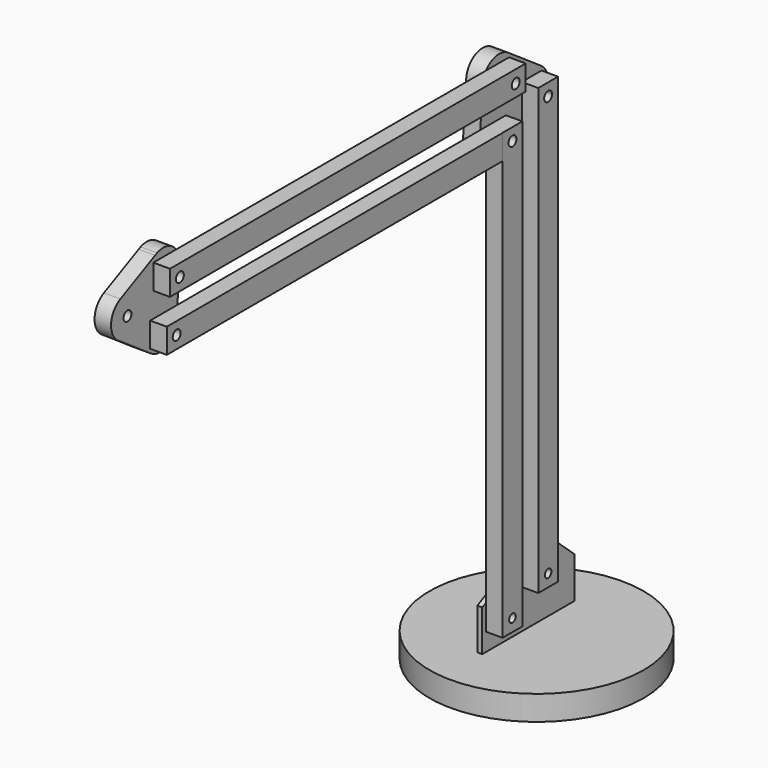
from build123d import *

# Parameters (mm, degrees)
F0_R      = 65
F1_DEPTH  = 15
F2_W      = 3
F2_H      = 70
F3_DEPTH  = 25
F5_DEPTH  = 3
F7_D      = 5
F8_R      = 3
F8_R_2    = 2.5
F9_DEPTH  = 10
F10_R     = 3
F11_DEPTH = 10
F12_R     = 3
F13_DEPTH = 10.1
F14_R     = 3
F15_DEPTH = 10


with BuildPart() as f1:
    # F0 (on Top) → F1 (new body)
    with BuildSketch(Plane.XY):
        Circle(F0_R)
    extrude(amount=F1_DEPTH)

    # F2 (on face) → F3 (join)
    with BuildSketch(Plane.XY.offset(15)):
        with Locations((-6.5, 0)):
            Rectangle(F2_W, F2_H)
    extrude(amount=F3_DEPTH)

    # F4 (on face) → F5 (join)
    with BuildSketch(Plane(origin=(-8, 0, 0), x_dir=(0, -1, 0), z_dir=(-1, 0, 0))):
        Polygon((-35, 40), (35, 40), (-10.6395371258, 61.74890697), align=None)
    extrude(amount=-F5_DEPTH)

    # F7 (through all)
    with Locations(Plane(origin=(-8, 0, 0), x_dir=(0, -1, 0), z_dir=(-1, 0, 0))):
        with Locations((-2.5252789198, 46.2088645364), (24.5568976072, 33.3032179211)):
            Hole(F7_D / 2)

    # F8 (on face) → F9 (join)
    with BuildSketch(Plane.YZ.offset(-5)):
        Polygon((-32.0568976072, 295.8032179211), (-32.0568976072, 41.4024958221), (-17.0568976072, 48.5505438764), (-17.0568976072, 295.8032179211), align=None)
        with Locations((-24.5568976072, 288.3032179211)):
            Circle(F8_R, mode=Mode.SUBTRACT)
        Polygon((-4.9747210802, 308.7088645364), (-4.9747210802, 54.3081424374), (10.0252789198, 61.4561904917), (10.0252789198, 308.7088645364), (2.5252789198, 308.7088645364), align=None)
        with BuildLine():
            ThreePointArc((5.5252789198, 301.2088645364), (0.4039585762, 299.0875441928), (2.5252789198, 304.2088645364))
            ThreePointArc((2.5252789198, 304.2088645364), (4.6465992633, 303.3301848799), (5.5252789198, 301.2088645364))
        make_face(mode=Mode.SUBTRACT)
        Polygon((10.0252789198, 61.4561904917), (-4.9747210802, 54.3081424374), (-4.9747210802, 38.7088645364), (10.0252789198, 38.7088645364), align=None)
        with Locations((2.5252789198, 46.2088645364)):
            Circle(F8_R_2, mode=Mode.SUBTRACT)
        Polygon((-32.0568976072, 41.4024958221), (-32.0568976072, 25.8032179211), (-17.0568976072, 25.8032179211), (-17.0568976072, 48.5505438764), align=None)
        with Locations((-24.5568976072, 33.3032179211)):
            Circle(F8_R_2, mode=Mode.SUBTRACT)
    extrude(amount=F9_DEPTH)

    # F10 (on face) → F11 (join)
    with BuildSketch(Plane(origin=(-5, 0, 0), x_dir=(0, -1, 0), z_dir=(-1, 0, 0))):
        with BuildLine():
            Line((36.9886778951, 289.224208002), (34.7282933681, 317.885416384))
            ThreePointArc((34.7282933681, 317.885416384), (28.1753092515, 329.1496679175), (15.161757221, 328.4623346707))
            Line((15.161757221, 328.4623346707), (-8.9063381185, 311.9574497225))
            Line((-8.9063381185, 311.9574497225), (-10.2528547102, 311.03406542))
            ThreePointArc((-10.2528547102, 311.03406542), (-14.9500569426, 299.8395979138), (-7.9278259355, 289.9366648512))
            Line((-7.9278259355, 289.9366648512), (18.9534333664, 277.0529978406))
            Line((18.9534333664, 277.0529978406), (19.2974731878, 276.8881062168))
            ThreePointArc((19.2974731878, 276.8881062168), (31.6770683616, 277.9880576803), (36.9886778951, 289.224208002))
        make_face()
        with Locations((-2.5252789198, 301.2088645364)):
            Circle(F10_R, mode=Mode.SUBTRACT)
        with Locations((24.5273711722, 288.2414390787)):
            Circle(F10_R, mode=Mode.SUBTRACT)
        with Locations((22.2311670236, 318.1534334177)):
            Circle(F10_R, mode=Mode.SUBTRACT)
        with BuildLine():
            Line((36.9886778951, 289.224208002), (34.7282933681, 317.885416384))
            ThreePointArc((34.7282933681, 317.885416384), (28.1753092515, 329.1496679175), (15.161757221, 328.4623346707))
            Line((15.161757221, 328.4623346707), (-8.9063381185, 311.9574497225))
            Line((-8.9063381185, 311.9574497225), (-10.2528547102, 311.03406542))
            ThreePointArc((-10.2528547102, 311.03406542), (-14.9500569426, 299.8395979138), (-7.9278259355, 289.9366648512))
            Line((-7.9278259355, 289.9366648512), (18.9534333664, 277.0529978406))
            Line((18.9534333664, 277.0529978406), (19.2974731878, 276.8881062168))
            ThreePointArc((19.2974731878, 276.8881062168), (31.6770683616, 277.9880576803), (36.9886778951, 289.224208002))
        make_face()
        with Locations((-2.5252789198, 301.2088645364)):
            Circle(F10_R, mode=Mode.SUBTRACT)
        with Locations((24.5273711722, 288.2414390787)):
            Circle(F10_R, mode=Mode.SUBTRACT)
        with Locations((22.2311670236, 318.1534334177)):
            Circle(F10_R, mode=Mode.SUBTRACT)
    extrude(amount=F11_DEPTH)

    # F12 (on face) → F13 (join)
    with BuildSketch(Plane.YZ.offset(-5)):
        with BuildLine():
            Line((-287.0568976072, 280.7414390787), (-34.5273711722, 280.7414390787))
            ThreePointArc((-34.5273711722, 280.7414390787), (-36.5322417286, 284.7581815627), (-36.9886778951, 289.224208002))
            Line((-36.9886778951, 289.224208002), (-36.4698200708, 295.8032179211))
            Line((-36.4698200708, 295.8032179211), (-287.0568976072, 295.8032179211))
            Line((-287.0568976072, 295.8032179211), (-287.0568976072, 280.7414390787))
        make_face()
        with Locations((-279.5568976072, 288.2723284999)):
            Circle(F12_R, mode=Mode.SUBTRACT)
        with BuildLine():
            Line((-284.6566983312, 310.7544099386), (-35.2906847515, 310.7544099386))
            Line((-35.2906847515, 310.7544099386), (-34.7282933681, 317.885416384))
            ThreePointArc((-34.7282933681, 317.885416384), (-34.09968308, 322.0762291833), (-32.1070052282, 325.816188781))
            Line((-32.1070052282, 325.816188781), (-284.6566983312, 325.816188781))
            Line((-284.6566983312, 325.816188781), (-284.6566983312, 310.7544099386))
        make_face()
        with Locations((-277.1566983312, 318.2852993598)):
            Circle(F12_R, mode=Mode.SUBTRACT)
        with BuildLine():
            Line((-34.5273711722, 280.7414390787), (-32.0568976072, 280.7414390787))
            Line((-32.0568976072, 280.7414390787), (-32.0568976072, 295.8032179211))
            Line((-32.0568976072, 295.8032179211), (-36.4698200708, 295.8032179211))
            Line((-36.4698200708, 295.8032179211), (-36.9886778951, 289.224208002))
            ThreePointArc((-36.9886778951, 289.224208002), (-36.5322417286, 284.7581815627), (-34.5273711722, 280.7414390787))
        make_face()
        with BuildLine():
            Line((-34.7282933681, 317.885416384), (-35.2906847515, 310.7544099386))
            Line((-35.2906847515, 310.7544099386), (-14.6566983312, 310.7544099386))
            Line((-14.6566983312, 310.7544099386), (-14.6566983312, 325.816188781))
            Line((-14.6566983312, 325.816188781), (-32.1070052282, 325.816188781))
            ThreePointArc((-32.1070052282, 325.816188781), (-34.09968308, 322.0762291833), (-34.7282933681, 317.885416384))
        make_face()
        with Locations((-22.2311670236, 318.1534334177)):
            Circle(F12_R, mode=Mode.SUBTRACT)
    extrude(amount=F13_DEPTH)

    # F14 (on face) → F15 (join)
    with BuildSketch(Plane(origin=(-5, 0, 0), x_dir=(0, -1, 0), z_dir=(-1, 0, 0))):
        with BuildLine():
            ThreePointArc((267.0595581049, 287.1736825743), (267.8604330049, 283.7810187252), (269.5670449033, 280.7414390787))
            Line((269.5670449033, 280.7414390787), (287.0568976072, 280.7414390787))
            Line((287.0568976072, 280.7414390787), (287.0568976072, 295.8032179211))
            Line((287.0568976072, 295.8032179211), (266.3966875062, 295.8032179211))
            Line((266.3966875062, 295.8032179211), (267.0303385293, 287.5540756116))
            Line((267.0303385293, 287.5540756116), (267.0595581049, 287.1736825743))
        make_face()
        with BuildLine():
            ThreePointArc((277.43915398, 286.1474374605), (277.3573466714, 290.4139524214), (281.6245254003, 290.446015531))
            ThreePointArc((281.6245254003, 290.446015531), (282.3139688231, 289.4549350745), (282.5568976072, 288.2723284999))
            ThreePointArc((282.5568976072, 288.2723284999), (280.7072821339, 285.5016579239), (277.43915398, 286.1474374605))
        make_face(mode=Mode.SUBTRACT)
        with BuildLine():
            Line((286.5885379882, 278.0207007669), (310.2796802866, 294.3088553806))
            ThreePointArc((310.2796802866, 294.3088553806), (316.758316211, 305.6160318629), (309.6562921431, 316.5424318913))
            Line((309.6562921431, 316.5424318913), (283.3285948217, 329.133571402))
            Line((283.3285948217, 329.133571402), (281.8556622624, 329.8379968258))
            ThreePointArc((281.8556622624, 329.8379968258), (269.812367904, 328.3086595327), (264.7472918034, 317.275762558))
            Line((264.7472918034, 317.275762558), (266.3966875062, 295.8032179211))
            Line((266.3966875062, 295.8032179211), (287.0568976072, 295.8032179211))
            Line((287.0568976072, 295.8032179211), (287.0568976072, 280.7414390787))
            Line((287.0568976072, 280.7414390787), (269.5670449033, 280.7414390787))
            ThreePointArc((269.5670449033, 280.7414390787), (277.5338100054, 275.9778112248), (286.5885379882, 278.0207007669))
        make_face()
        with Locations((304.2632266742, 305.2656927861)):
            Circle(F14_R, mode=Mode.SUBTRACT)
        with Locations((277.2105765951, 318.2331194398)):
            Circle(F14_R, mode=Mode.SUBTRACT)
    extrude(amount=F15_DEPTH)


solid = f1.part
